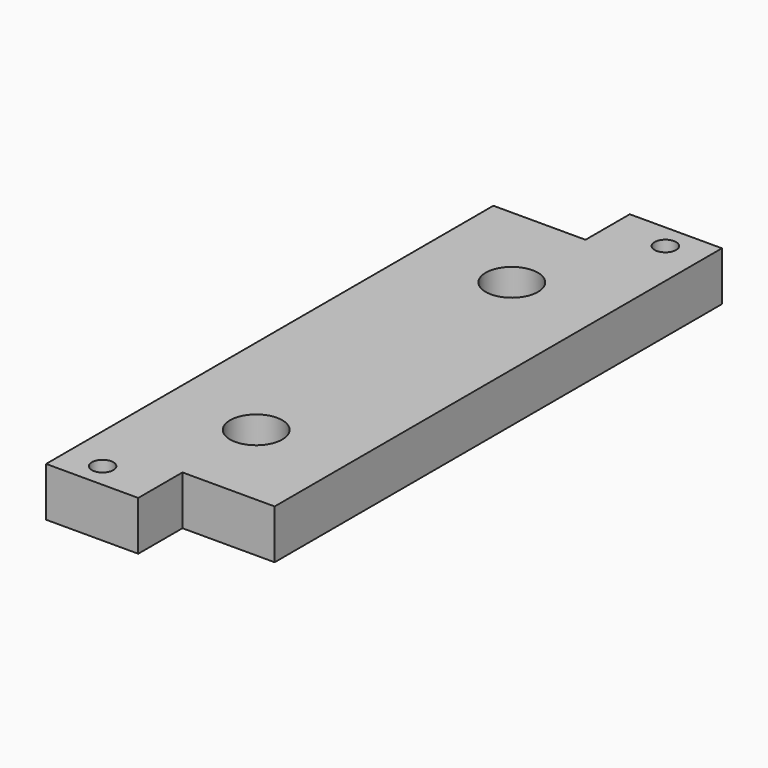
from build123d import *

# Parameters (mm, degrees)
F0_W     = 42
F0_H     = 120
F1_DEPTH = 8
F2_W     = 42
F2_H     = 120
F2_W_2   = 30
F2_H_2   = 100
F3_DEPTH = 25
F4_W     = 15
F4_H     = 10
F5_DEPTH = 25
F6_DEPTH = 1
F7_DEPTH = 1
F8_R     = 1.75
F8_R_2   = 4.25
F9_DEPTH = 25


with BuildPart() as f1:
    # F0 (on Top) → F1 (new body)
    with BuildSketch(Plane.XY):
        Rectangle(F0_W, F0_H)
    extrude(amount=F1_DEPTH)

    # F2 (on face) → F3 (cut)
    with BuildSketch(Plane.XY.offset(8)):
        Rectangle(F2_W, F2_H)
        Rectangle(F2_W_2, F2_H_2, mode=Mode.SUBTRACT)
    extrude(amount=-F3_DEPTH, mode=Mode.SUBTRACT)

    # F4 (on face) → F5 (cut)
    with BuildSketch(Plane.XY.offset(8)):
        with Locations((-7.5, 45)):
            Rectangle(F4_W, F4_H)
        with Locations((7.5, -45)):
            Rectangle(F4_W, F4_H)
    extrude(amount=-F5_DEPTH, mode=Mode.SUBTRACT)

    # F6 (add): a face of the model
    f6_faces = [f1.faces().sort_by_distance(p)[0] for p in [
        (-7.5, 40, 4),
    ]]
    extrude(f6_faces, amount=F6_DEPTH)

    # F7 (add): a face of the model
    f7_faces = [f1.faces().sort_by_distance(p)[0] for p in [
        (7.5, -40, 4),
    ]]
    extrude(f7_faces, amount=F7_DEPTH)

    # F8 (on face) → F9 (cut)
    with BuildSketch(Plane.XY.offset(8)):
        with Locations((9, 46)):
            Circle(F8_R)
        with Locations((-9, -46)):
            Circle(F8_R)
        with Locations((0, 26)):
            Circle(F8_R_2)
        with Locations((0, -26)):
            Circle(F8_R_2)
    extrude(amount=-F9_DEPTH, mode=Mode.SUBTRACT)


solid = f1.part
